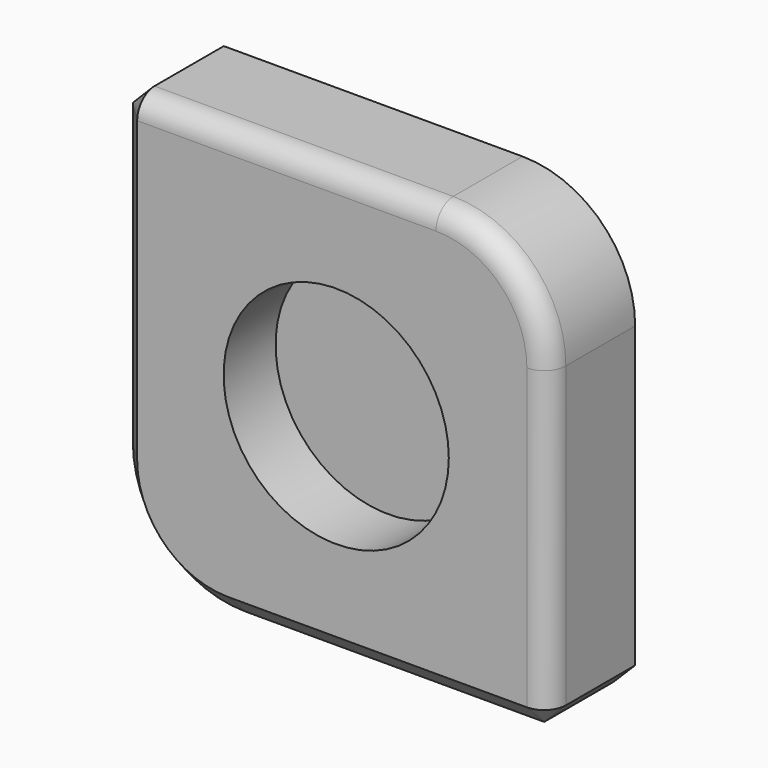
from build123d import *

# Parameters (mm, degrees)
F1_DEPTH = 25
F2_R     = 5
F3_SIZE  = 5
F4_R     = 26.000333
F5_DEPTH = 15


with BuildPart() as f1:
    # F0 (on Front) → F1 (new body)
    with BuildSketch(Plane.XZ):
        with BuildLine():
            Line((30.506836, 50.163411), (-43.493164, 50.163411))
            Line((-43.493164, 50.163411), (-43.493164, -23.836589))
            ThreePointArc((-43.493164, -23.836589), (-35.87794, -42.221365), (-17.493164, -49.836589))
            Line((-17.493164, -49.836589), (56.506836, -49.836589))
            Line((56.506836, -49.836589), (56.506836, 24.163411))
            ThreePointArc((56.506836, 24.163411), (48.891612, 42.548187), (30.506836, 50.163411))
        make_face()
    extrude(amount=F1_DEPTH)

    # F2
    f2_edges = [f1.edges().sort_by_distance(p)[0] for p in [
        (-6.493164, -25, 50.163411),
    ]]
    fillet(f2_edges, radius=F2_R)

    # F3
    f3_edges = [f1.edges().sort_by_distance(p)[0] for p in [
        (-43.493164, -10, 50.163411),
    ]]
    chamfer(f3_edges, length=F3_SIZE)

    # F4 (on face) → F5 (cut)
    with BuildSketch(Plane.XZ.offset(25)):
        with Locations((7.471764, 0)):
            Circle(F4_R)
    extrude(amount=-F5_DEPTH, mode=Mode.SUBTRACT)


solid = f1.part
